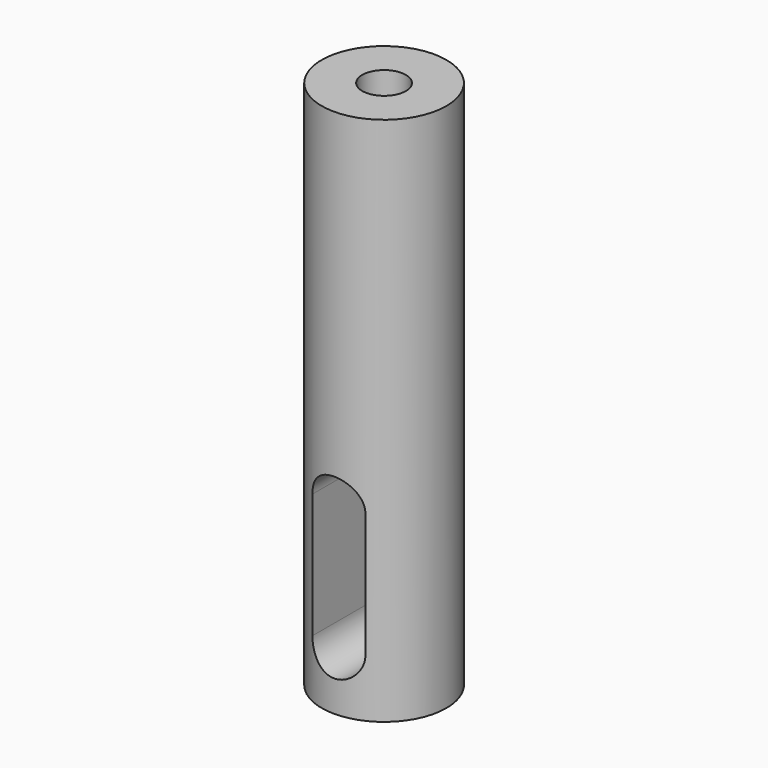
from build123d import *

# Parameters (mm, degrees)
F0_R          = 5.08
F0_R_2        = 1.778
F1_DEPTH      = 25.4
F2_DEPTH      = 43.18
F4_DEPTH      = 25.4
F4_DEPTH_BACK = 25.4


with BuildPart() as f1:
    # F0 (on Top) → F1 (new body)
    with BuildSketch(Plane.XY):
        Circle(F0_R)
        Circle(F0_R_2, mode=Mode.SUBTRACT)
        Circle(F0_R_2)
    extrude(amount=F1_DEPTH)

    # F0 (on Top) → F2 (join)
    with BuildSketch(Plane.XY):
        Circle(F0_R)
        Circle(F0_R_2, mode=Mode.SUBTRACT)
    extrude(amount=F2_DEPTH)

    # F3 (on Front) → F4 (cut, two sides)
    with BuildSketch(Plane.XZ) as f4_sk:
        with BuildLine():
            ThreePointArc((-2.159, 4.699), (0, 2.54), (2.159, 4.699))
            ThreePointArc((2.159, 4.699), (0, 6.858), (-2.159, 4.699))
        make_face()
        with BuildLine():
            ThreePointArc((-2.159, 4.699), (0, 6.858), (2.159, 4.699))
            Line((2.159, 4.699), (2.159, 14.859))
            ThreePointArc((2.159, 14.859), (0, 12.7), (-2.159, 14.859))
            Line((-2.159, 14.859), (-2.159, 4.699))
        make_face()
        with BuildLine():
            ThreePointArc((-2.159, 14.859), (0, 12.7), (2.159, 14.859))
            ThreePointArc((2.159, 14.859), (0, 17.018), (-2.159, 14.859))
        make_face()
    extrude(amount=-F4_DEPTH, mode=Mode.SUBTRACT)
    extrude(f4_sk.sketch, amount=F4_DEPTH_BACK, mode=Mode.SUBTRACT)


solid = f1.part
